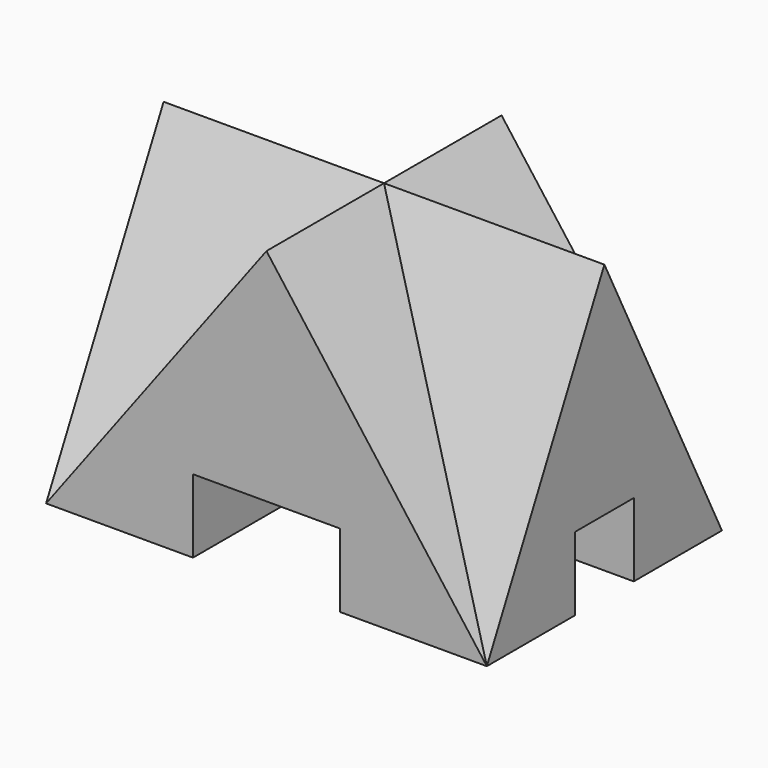
from build123d import *

# Parameters (mm, degrees)
F1_DEPTH = 20
F3_DEPTH = 30
F4_W     = 20
F4_H     = 10
F5_DEPTH = 40
F6_W     = 10
F6_H     = 10
F7_DEPTH = 64.9


with BuildPart() as f1:
    # F0 (on Front) → F1 (new body, symmetric)
    with BuildSketch(Plane.XZ):
        Polygon((0, 40), (-30, 0), (30, 0), align=None)
    extrude(amount=F1_DEPTH, both=True)

    # F2 (on Right) → F3 (join, symmetric)
    with BuildSketch(Plane.YZ):
        Polygon((20, 0), (0, 40), (-20, 0), align=None)
    extrude(amount=F3_DEPTH, both=True)

    # F4 (on face) → F5 (cut, through all)
    with BuildSketch(Plane.XZ.offset(20)):
        with Locations((0, 5)):
            Rectangle(F4_W, F4_H)
    extrude(amount=-F5_DEPTH, mode=Mode.SUBTRACT)

    # F6 (on face) → F7 (cut)
    with BuildSketch(Plane.YZ.offset(30)):
        with Locations((0, 5)):
            Rectangle(F6_W, F6_H)
    extrude(amount=-F7_DEPTH, mode=Mode.SUBTRACT)


solid = f1.part
